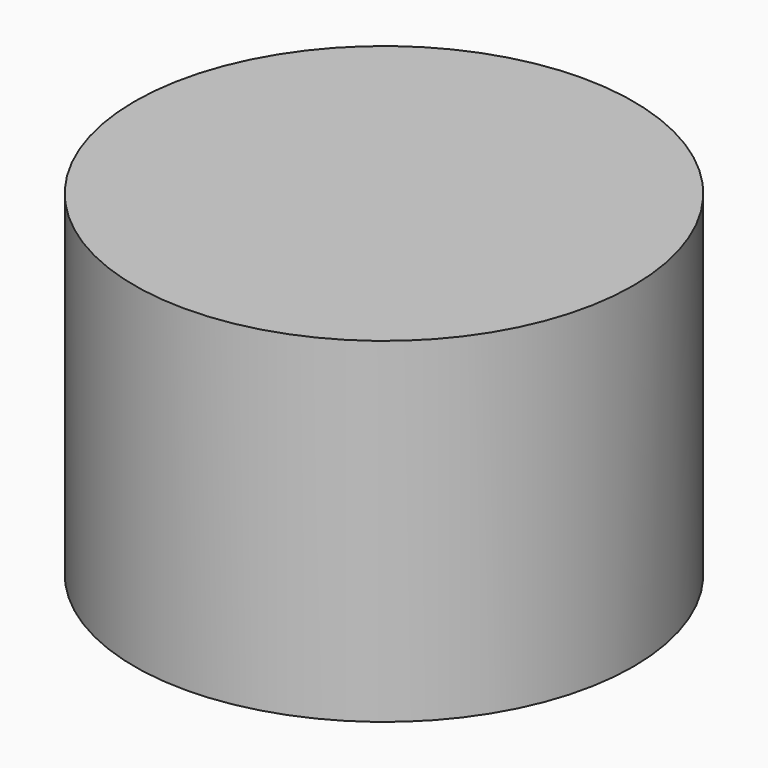
from build123d import *

# Parameters (mm, degrees)
F5_R = 18.881461
F1_R = 18.881461


with BuildPart() as f6:
    # F5 (on offset) → F6 section 0
    with BuildSketch(Plane.XY.offset(25.4)):
        with Locations((-66.770934, 66.483133)):
            Circle(F5_R)
    # F1 (on Top) → F6 section 1
    with BuildSketch(Plane.XY):
        with Locations((-66.770934, 66.483133)):
            Circle(F1_R)
    loft()


solid = f6.part
